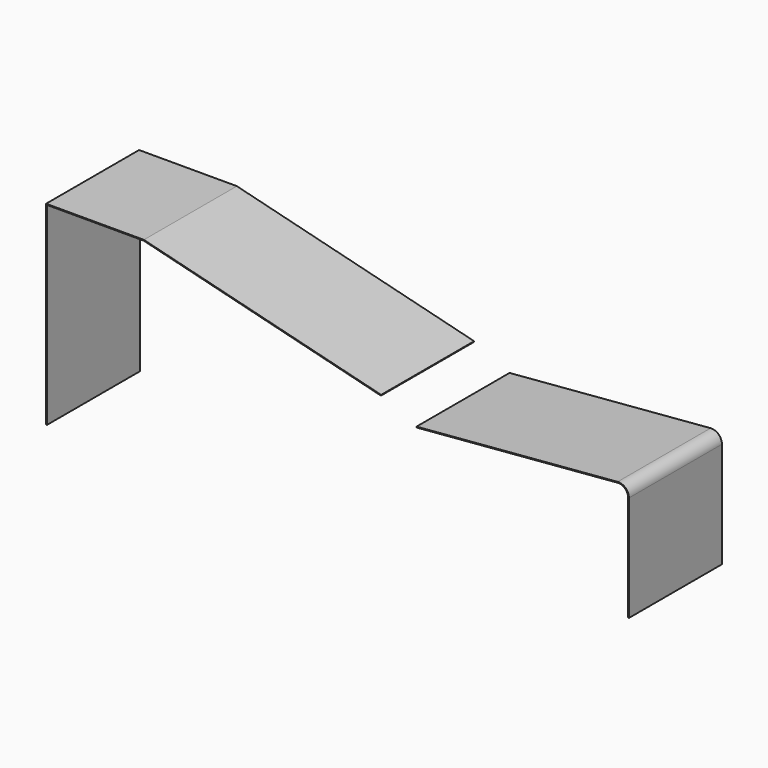
from build123d import *

# Parameters (mm, degrees)
F1_DEPTH = 152.4


with BuildPart() as f1:
    # F0 (on Front) → F1 (new body)
    with BuildSketch(Plane.XZ):
        Polygon((0, -254), (0, 0), (127, 0), (437.960405, -77.740101), (438.219142, -76.705153), (127.131329, 1.0668), (-1.0668, 1.0668), (-1.0668, -254), align=None)
        with BuildLine():
            Line((484.620762, -98.244439), (484.709355, -99.307554))
            Line((484.709355, -99.307554), (748.245322, -77.346223))
            ThreePointArc((748.245322, -77.346223), (757.899291, -80.656649), (762, -90.002354))
            Line((762, -90.002354), (762, -228.6))
            Line((762, -228.6), (763.0668, -228.6))
            Line((763.0668, -228.6), (763.0668, -90.002354))
            ThreePointArc((763.0668, -90.002354), (758.621631, -79.87161), (748.156729, -76.283108))
            Line((748.156729, -76.283108), (484.620762, -98.244439))
        make_face()
    extrude(amount=F1_DEPTH)


solid = f1.part
